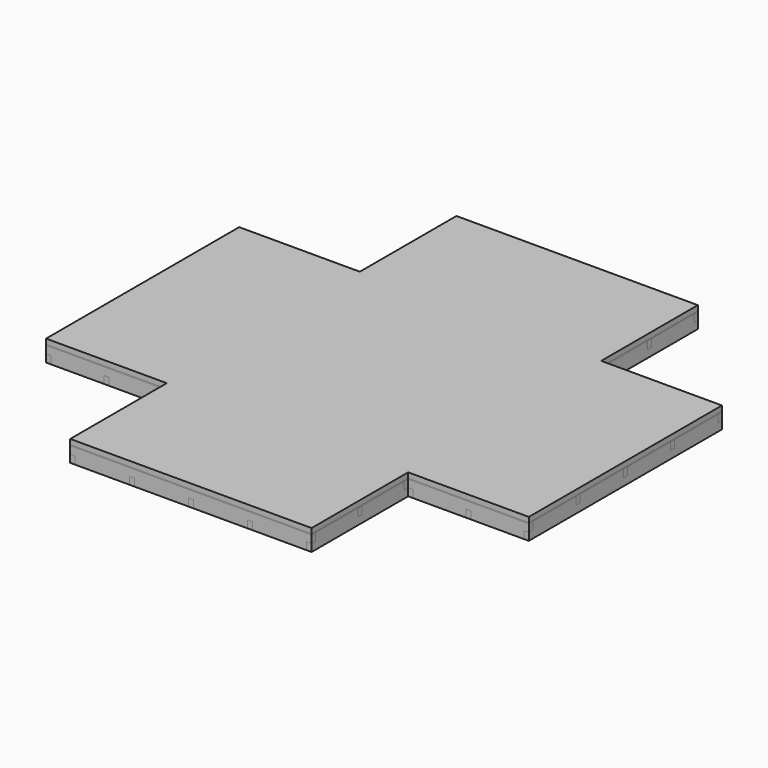
from build123d import *

# Parameters (mm, degrees)
F1_W      = 1219.2
F1_H      = 1219.2
F1_W_2    = 609.6
F1_H_2    = 609.6
F2_DEPTH  = 25.4
F3_DEPTH  = 5
F4_W      = 25.4
F4_H      = 2438.4
F8_DEPTH  = 76.2
F5_W      = 25.4
F5_H      = 1219.2
F9_DEPTH  = 76.2
F6_W      = 2438.4
F6_H      = 25.4
F7_W      = 1219.2
F7_H      = 25.4
F10_DEPTH = 38.1
F11_DEPTH = 76.2
F12_DEPTH = 76.2


with BuildPart() as f2:
    # F1 (on Top) → F2 (new body)
    with BuildSketch(Plane.XY):
        Rectangle(F1_W, F1_H)
        with Locations((914.4, 0)):
            Rectangle(F1_W_2, F1_H)
        with Locations((0, 914.4)):
            Rectangle(F1_W, F1_H_2)
        with Locations((-914.4, 0)):
            Rectangle(F1_W_2, F1_H)
        with Locations((0, -914.4)):
            Rectangle(F1_W, F1_H_2)
    extrude(amount=F2_DEPTH)


with BuildPart() as f3:
    # F3 (new): a face of the model
    f3_faces = [f2.part.faces().sort_by_distance(p)[0] for p in [
        (0, 0, 0),
    ]]
    extrude(f3_faces, amount=F3_DEPTH)


with BuildPart() as f8:
    # F4 (on face) → F8 (new body)
    with BuildSketch(Plane(origin=(0, 0, -5), x_dir=(1, 0, 0), z_dir=(0, 0, -1))):
        with Locations((-596.9, 0)):
            Rectangle(F4_W, F4_H)
    extrude(amount=F8_DEPTH)


with BuildPart() as f8b:
    # F4 (on face) → F8, piece 2 (new body)
    with BuildSketch(Plane(origin=(0, 0, -5), x_dir=(1, 0, 0), z_dir=(0, 0, -1))):
        with Locations((-298.45, 0)):
            Rectangle(F4_W, F4_H)
    extrude(amount=F8_DEPTH)


with BuildPart() as f8c:
    # F4 (on face) → F8, piece 3 (new body)
    with BuildSketch(Plane(origin=(0, 0, -5), x_dir=(1, 0, 0), z_dir=(0, 0, -1))):
        Rectangle(F4_W, F4_H)
    extrude(amount=F8_DEPTH)


with BuildPart() as f8d:
    # F4 (on face) → F8, piece 4 (new body)
    with BuildSketch(Plane(origin=(0, 0, -5), x_dir=(1, 0, 0), z_dir=(0, 0, -1))):
        with Locations((298.45, 0)):
            Rectangle(F4_W, F4_H)
    extrude(amount=F8_DEPTH)


with BuildPart() as f8e:
    # F4 (on face) → F8, piece 5 (new body)
    with BuildSketch(Plane(origin=(0, 0, -5), x_dir=(1, 0, 0), z_dir=(0, 0, -1))):
        with Locations((596.9, 0)):
            Rectangle(F4_W, F4_H)
    extrude(amount=F8_DEPTH)


with BuildPart() as f9:
    # F5 (on face) → F9 (new body)
    with BuildSketch(Plane(origin=(0, 0, -5), x_dir=(1, 0, 0), z_dir=(0, 0, -1))):
        with Locations((-1206.5, 0)):
            Rectangle(F5_W, F5_H)
    extrude(amount=F9_DEPTH)


with BuildPart() as f9b:
    # F5 (on face) → F9, piece 2 (new body)
    with BuildSketch(Plane(origin=(0, 0, -5), x_dir=(1, 0, 0), z_dir=(0, 0, -1))):
        with Locations((-914.4, 0)):
            Rectangle(F5_W, F5_H)
    extrude(amount=F9_DEPTH)


with BuildPart() as f9c:
    # F5 (on face) → F9, piece 3 (new body)
    with BuildSketch(Plane(origin=(0, 0, -5), x_dir=(1, 0, 0), z_dir=(0, 0, -1))):
        with Locations((-622.3, 0)):
            Rectangle(F5_W, F5_H)
    extrude(amount=F9_DEPTH)


with BuildPart() as f9d:
    # F5 (on face) → F9, piece 4 (new body)
    with BuildSketch(Plane(origin=(0, 0, -5), x_dir=(1, 0, 0), z_dir=(0, 0, -1))):
        with Locations((622.3, 0)):
            Rectangle(F5_W, F5_H)
    extrude(amount=F9_DEPTH)


with BuildPart() as f9e:
    # F5 (on face) → F9, piece 5 (new body)
    with BuildSketch(Plane(origin=(0, 0, -5), x_dir=(1, 0, 0), z_dir=(0, 0, -1))):
        with Locations((914.4, 0)):
            Rectangle(F5_W, F5_H)
    extrude(amount=F9_DEPTH)


with BuildPart() as f9f:
    # F5 (on face) → F9, piece 6 (new body)
    with BuildSketch(Plane(origin=(0, 0, -5), x_dir=(1, 0, 0), z_dir=(0, 0, -1))):
        with Locations((1206.5, 0)):
            Rectangle(F5_W, F5_H)
    extrude(amount=F9_DEPTH)


with BuildPart() as f10_tool:
    # F6 (on face) + F7 (on face) → F10 (new body)
    with BuildSketch(Plane(origin=(0, 0, -5), x_dir=(1, 0, 0), z_dir=(0, 0, -1))):
        with Locations((0, -596.9)):
            Rectangle(F6_W, F6_H)
        with Locations((0, -298.45)):
            Rectangle(F6_W, F6_H)
        Rectangle(F6_W, F6_H)
        with Locations((0, 298.45)):
            Rectangle(F6_W, F6_H)
        with Locations((0, 596.9)):
            Rectangle(F6_W, F6_H)
    with BuildSketch(Plane(origin=(0, 0, -5), x_dir=(1, 0, 0), z_dir=(0, 0, -1))):
        with Locations((0, -1206.5)):
            Rectangle(F7_W, F7_H)
        with Locations((0, -914.4)):
            Rectangle(F7_W, F7_H)
        with Locations((0, -622.3)):
            Rectangle(F7_W, F7_H)
        with Locations((0, 622.3)):
            Rectangle(F7_W, F7_H)
        with Locations((0, 914.4)):
            Rectangle(F7_W, F7_H)
        with Locations((0, 1206.5)):
            Rectangle(F7_W, F7_H)
    extrude(amount=F10_DEPTH)


with BuildPart() as f8_1:
    add(f8.part)

    # F10: cut by f10_tool
    add(f10_tool.part, mode=Mode.SUBTRACT)


with BuildPart() as f8b_1:
    add(f8b.part)

    # F10: cut by f10_tool
    add(f10_tool.part, mode=Mode.SUBTRACT)


with BuildPart() as f8c_1:
    add(f8c.part)

    # F10: cut by f10_tool
    add(f10_tool.part, mode=Mode.SUBTRACT)


with BuildPart() as f8d_1:
    add(f8d.part)

    # F10: cut by f10_tool
    add(f10_tool.part, mode=Mode.SUBTRACT)


with BuildPart() as f8e_1:
    add(f8e.part)

    # F10: cut by f10_tool
    add(f10_tool.part, mode=Mode.SUBTRACT)


with BuildPart() as f9_1:
    add(f9.part)

    # F10: cut by f10_tool
    add(f10_tool.part, mode=Mode.SUBTRACT)


with BuildPart() as f9b_1:
    add(f9b.part)

    # F10: cut by f10_tool
    add(f10_tool.part, mode=Mode.SUBTRACT)


with BuildPart() as f9c_1:
    add(f9c.part)

    # F10: cut by f10_tool
    add(f10_tool.part, mode=Mode.SUBTRACT)


with BuildPart() as f9d_1:
    add(f9d.part)

    # F10: cut by f10_tool
    add(f10_tool.part, mode=Mode.SUBTRACT)


with BuildPart() as f9e_1:
    add(f9e.part)

    # F10: cut by f10_tool
    add(f10_tool.part, mode=Mode.SUBTRACT)


with BuildPart() as f9f_1:
    add(f9f.part)

    # F10: cut by f10_tool
    add(f10_tool.part, mode=Mode.SUBTRACT)


with BuildPart() as f11:
    # F6 (on face) → F11 (new body)
    with BuildSketch(Plane(origin=(0, 0, -5), x_dir=(1, 0, 0), z_dir=(0, 0, -1))):
        with Locations((0, -596.9)):
            Rectangle(F6_W, F6_H)
    extrude(amount=F11_DEPTH)

    # F13: cut F9f, F9e, F9d, F9c, F9b, F9, F8e, F8d, F8c, F8b, F8
    add(f9f_1.part, mode=Mode.SUBTRACT)
    add(f9e_1.part, mode=Mode.SUBTRACT)
    add(f9d_1.part, mode=Mode.SUBTRACT)
    add(f9c_1.part, mode=Mode.SUBTRACT)
    add(f9b_1.part, mode=Mode.SUBTRACT)
    add(f9_1.part, mode=Mode.SUBTRACT)
    add(f8e_1.part, mode=Mode.SUBTRACT)
    add(f8d_1.part, mode=Mode.SUBTRACT)
    add(f8c_1.part, mode=Mode.SUBTRACT)
    add(f8b_1.part, mode=Mode.SUBTRACT)
    add(f8_1.part, mode=Mode.SUBTRACT)


with BuildPart() as f11b:
    # F6 (on face) → F11, piece 2 (new body)
    with BuildSketch(Plane(origin=(0, 0, -5), x_dir=(1, 0, 0), z_dir=(0, 0, -1))):
        with Locations((0, -298.45)):
            Rectangle(F6_W, F6_H)
    extrude(amount=F11_DEPTH)

    # F13: cut F9f, F9e, F9d, F9c, F9b, F9, F8e, F8d, F8c, F8b, F8
    add(f9f_1.part, mode=Mode.SUBTRACT)
    add(f9e_1.part, mode=Mode.SUBTRACT)
    add(f9d_1.part, mode=Mode.SUBTRACT)
    add(f9c_1.part, mode=Mode.SUBTRACT)
    add(f9b_1.part, mode=Mode.SUBTRACT)
    add(f9_1.part, mode=Mode.SUBTRACT)
    add(f8e_1.part, mode=Mode.SUBTRACT)
    add(f8d_1.part, mode=Mode.SUBTRACT)
    add(f8c_1.part, mode=Mode.SUBTRACT)
    add(f8b_1.part, mode=Mode.SUBTRACT)
    add(f8_1.part, mode=Mode.SUBTRACT)


with BuildPart() as f11c:
    # F6 (on face) → F11, piece 3 (new body)
    with BuildSketch(Plane(origin=(0, 0, -5), x_dir=(1, 0, 0), z_dir=(0, 0, -1))):
        Rectangle(F6_W, F6_H)
    extrude(amount=F11_DEPTH)

    # F13: cut F9f, F9e, F9d, F9c, F9b, F9, F8e, F8d, F8c, F8b, F8
    add(f9f_1.part, mode=Mode.SUBTRACT)
    add(f9e_1.part, mode=Mode.SUBTRACT)
    add(f9d_1.part, mode=Mode.SUBTRACT)
    add(f9c_1.part, mode=Mode.SUBTRACT)
    add(f9b_1.part, mode=Mode.SUBTRACT)
    add(f9_1.part, mode=Mode.SUBTRACT)
    add(f8e_1.part, mode=Mode.SUBTRACT)
    add(f8d_1.part, mode=Mode.SUBTRACT)
    add(f8c_1.part, mode=Mode.SUBTRACT)
    add(f8b_1.part, mode=Mode.SUBTRACT)
    add(f8_1.part, mode=Mode.SUBTRACT)


with BuildPart() as f11d:
    # F6 (on face) → F11, piece 4 (new body)
    with BuildSketch(Plane(origin=(0, 0, -5), x_dir=(1, 0, 0), z_dir=(0, 0, -1))):
        with Locations((0, 298.45)):
            Rectangle(F6_W, F6_H)
    extrude(amount=F11_DEPTH)

    # F13: cut F9f, F9e, F9d, F9c, F9b, F9, F8e, F8d, F8c, F8b, F8
    add(f9f_1.part, mode=Mode.SUBTRACT)
    add(f9e_1.part, mode=Mode.SUBTRACT)
    add(f9d_1.part, mode=Mode.SUBTRACT)
    add(f9c_1.part, mode=Mode.SUBTRACT)
    add(f9b_1.part, mode=Mode.SUBTRACT)
    add(f9_1.part, mode=Mode.SUBTRACT)
    add(f8e_1.part, mode=Mode.SUBTRACT)
    add(f8d_1.part, mode=Mode.SUBTRACT)
    add(f8c_1.part, mode=Mode.SUBTRACT)
    add(f8b_1.part, mode=Mode.SUBTRACT)
    add(f8_1.part, mode=Mode.SUBTRACT)


with BuildPart() as f11e:
    # F6 (on face) → F11, piece 5 (new body)
    with BuildSketch(Plane(origin=(0, 0, -5), x_dir=(1, 0, 0), z_dir=(0, 0, -1))):
        with Locations((0, 596.9)):
            Rectangle(F6_W, F6_H)
    extrude(amount=F11_DEPTH)

    # F13: cut F9f, F9e, F9d, F9c, F9b, F9, F8e, F8d, F8c, F8b, F8
    add(f9f_1.part, mode=Mode.SUBTRACT)
    add(f9e_1.part, mode=Mode.SUBTRACT)
    add(f9d_1.part, mode=Mode.SUBTRACT)
    add(f9c_1.part, mode=Mode.SUBTRACT)
    add(f9b_1.part, mode=Mode.SUBTRACT)
    add(f9_1.part, mode=Mode.SUBTRACT)
    add(f8e_1.part, mode=Mode.SUBTRACT)
    add(f8d_1.part, mode=Mode.SUBTRACT)
    add(f8c_1.part, mode=Mode.SUBTRACT)
    add(f8b_1.part, mode=Mode.SUBTRACT)
    add(f8_1.part, mode=Mode.SUBTRACT)


with BuildPart() as f12:
    # F7 (on face) → F12 (new body)
    with BuildSketch(Plane(origin=(0, 0, -5), x_dir=(1, 0, 0), z_dir=(0, 0, -1))):
        with Locations((0, -1206.5)):
            Rectangle(F7_W, F7_H)
    extrude(amount=F12_DEPTH)

    # F13: cut F9f, F9e, F9d, F9c, F9b, F9, F8e, F8d, F8c, F8b, F8
    add(f9f_1.part, mode=Mode.SUBTRACT)
    add(f9e_1.part, mode=Mode.SUBTRACT)
    add(f9d_1.part, mode=Mode.SUBTRACT)
    add(f9c_1.part, mode=Mode.SUBTRACT)
    add(f9b_1.part, mode=Mode.SUBTRACT)
    add(f9_1.part, mode=Mode.SUBTRACT)
    add(f8e_1.part, mode=Mode.SUBTRACT)
    add(f8d_1.part, mode=Mode.SUBTRACT)
    add(f8c_1.part, mode=Mode.SUBTRACT)
    add(f8b_1.part, mode=Mode.SUBTRACT)
    add(f8_1.part, mode=Mode.SUBTRACT)


with BuildPart() as f12b:
    # F7 (on face) → F12, piece 2 (new body)
    with BuildSketch(Plane(origin=(0, 0, -5), x_dir=(1, 0, 0), z_dir=(0, 0, -1))):
        with Locations((0, -914.4)):
            Rectangle(F7_W, F7_H)
    extrude(amount=F12_DEPTH)

    # F13: cut F9f, F9e, F9d, F9c, F9b, F9, F8e, F8d, F8c, F8b, F8
    add(f9f_1.part, mode=Mode.SUBTRACT)
    add(f9e_1.part, mode=Mode.SUBTRACT)
    add(f9d_1.part, mode=Mode.SUBTRACT)
    add(f9c_1.part, mode=Mode.SUBTRACT)
    add(f9b_1.part, mode=Mode.SUBTRACT)
    add(f9_1.part, mode=Mode.SUBTRACT)
    add(f8e_1.part, mode=Mode.SUBTRACT)
    add(f8d_1.part, mode=Mode.SUBTRACT)
    add(f8c_1.part, mode=Mode.SUBTRACT)
    add(f8b_1.part, mode=Mode.SUBTRACT)
    add(f8_1.part, mode=Mode.SUBTRACT)


with BuildPart() as f12c:
    # F7 (on face) → F12, piece 3 (new body)
    with BuildSketch(Plane(origin=(0, 0, -5), x_dir=(1, 0, 0), z_dir=(0, 0, -1))):
        with Locations((0, -622.3)):
            Rectangle(F7_W, F7_H)
    extrude(amount=F12_DEPTH)

    # F13: cut F9f, F9e, F9d, F9c, F9b, F9, F8e, F8d, F8c, F8b, F8
    add(f9f_1.part, mode=Mode.SUBTRACT)
    add(f9e_1.part, mode=Mode.SUBTRACT)
    add(f9d_1.part, mode=Mode.SUBTRACT)
    add(f9c_1.part, mode=Mode.SUBTRACT)
    add(f9b_1.part, mode=Mode.SUBTRACT)
    add(f9_1.part, mode=Mode.SUBTRACT)
    add(f8e_1.part, mode=Mode.SUBTRACT)
    add(f8d_1.part, mode=Mode.SUBTRACT)
    add(f8c_1.part, mode=Mode.SUBTRACT)
    add(f8b_1.part, mode=Mode.SUBTRACT)
    add(f8_1.part, mode=Mode.SUBTRACT)


with BuildPart() as f12d:
    # F7 (on face) → F12, piece 4 (new body)
    with BuildSketch(Plane(origin=(0, 0, -5), x_dir=(1, 0, 0), z_dir=(0, 0, -1))):
        with Locations((0, 622.3)):
            Rectangle(F7_W, F7_H)
    extrude(amount=F12_DEPTH)

    # F13: cut F9f, F9e, F9d, F9c, F9b, F9, F8e, F8d, F8c, F8b, F8
    add(f9f_1.part, mode=Mode.SUBTRACT)
    add(f9e_1.part, mode=Mode.SUBTRACT)
    add(f9d_1.part, mode=Mode.SUBTRACT)
    add(f9c_1.part, mode=Mode.SUBTRACT)
    add(f9b_1.part, mode=Mode.SUBTRACT)
    add(f9_1.part, mode=Mode.SUBTRACT)
    add(f8e_1.part, mode=Mode.SUBTRACT)
    add(f8d_1.part, mode=Mode.SUBTRACT)
    add(f8c_1.part, mode=Mode.SUBTRACT)
    add(f8b_1.part, mode=Mode.SUBTRACT)
    add(f8_1.part, mode=Mode.SUBTRACT)


with BuildPart() as f12e:
    # F7 (on face) → F12, piece 5 (new body)
    with BuildSketch(Plane(origin=(0, 0, -5), x_dir=(1, 0, 0), z_dir=(0, 0, -1))):
        with Locations((0, 914.4)):
            Rectangle(F7_W, F7_H)
    extrude(amount=F12_DEPTH)

    # F13: cut F9f, F9e, F9d, F9c, F9b, F9, F8e, F8d, F8c, F8b, F8
    add(f9f_1.part, mode=Mode.SUBTRACT)
    add(f9e_1.part, mode=Mode.SUBTRACT)
    add(f9d_1.part, mode=Mode.SUBTRACT)
    add(f9c_1.part, mode=Mode.SUBTRACT)
    add(f9b_1.part, mode=Mode.SUBTRACT)
    add(f9_1.part, mode=Mode.SUBTRACT)
    add(f8e_1.part, mode=Mode.SUBTRACT)
    add(f8d_1.part, mode=Mode.SUBTRACT)
    add(f8c_1.part, mode=Mode.SUBTRACT)
    add(f8b_1.part, mode=Mode.SUBTRACT)
    add(f8_1.part, mode=Mode.SUBTRACT)


with BuildPart() as f12f:
    # F7 (on face) → F12, piece 6 (new body)
    with BuildSketch(Plane(origin=(0, 0, -5), x_dir=(1, 0, 0), z_dir=(0, 0, -1))):
        with Locations((0, 1206.5)):
            Rectangle(F7_W, F7_H)
    extrude(amount=F12_DEPTH)

    # F13: cut F9f, F9e, F9d, F9c, F9b, F9, F8e, F8d, F8c, F8b, F8
    add(f9f_1.part, mode=Mode.SUBTRACT)
    add(f9e_1.part, mode=Mode.SUBTRACT)
    add(f9d_1.part, mode=Mode.SUBTRACT)
    add(f9c_1.part, mode=Mode.SUBTRACT)
    add(f9b_1.part, mode=Mode.SUBTRACT)
    add(f9_1.part, mode=Mode.SUBTRACT)
    add(f8e_1.part, mode=Mode.SUBTRACT)
    add(f8d_1.part, mode=Mode.SUBTRACT)
    add(f8c_1.part, mode=Mode.SUBTRACT)
    add(f8b_1.part, mode=Mode.SUBTRACT)
    add(f8_1.part, mode=Mode.SUBTRACT)


solid = Compound([f2.part, f3.part, f8_1.part, f8b_1.part, f8c_1.part, f8d_1.part, f8e_1.part, f9_1.part, f9b_1.part, f9c_1.part, f9d_1.part, f9e_1.part, f9f_1.part, f11.part, f11b.part, f11c.part, f11d.part, f11e.part, f12.part, f12b.part, f12c.part, f12d.part, f12e.part, f12f.part])
